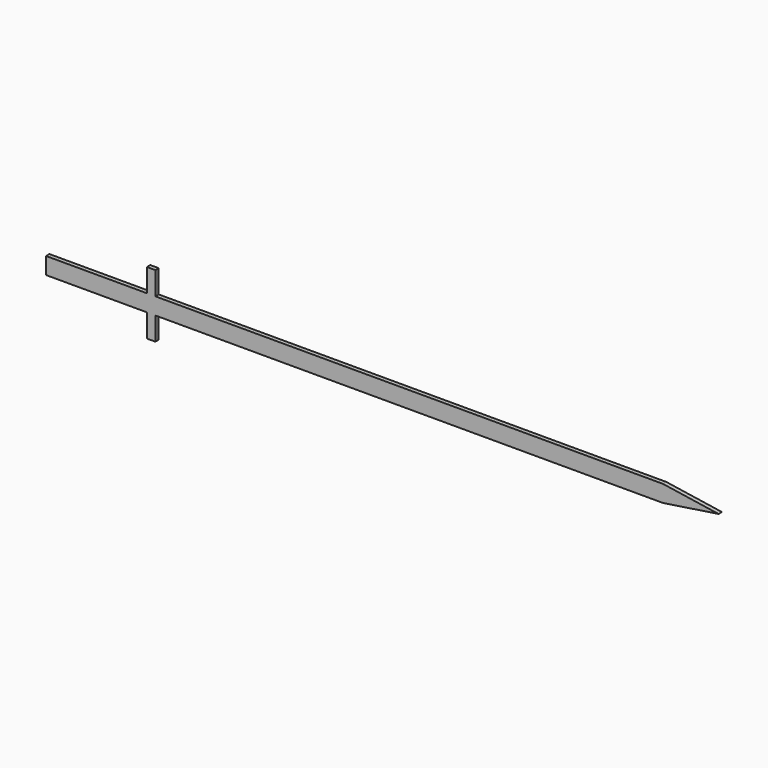
from build123d import *

# Parameters (mm, degrees)
F0_W     = 30.48
F0_H     = 5.08
F0_W_2   = 2.54
F1_DEPTH = 0.635
F0_H_2   = 6.985
F2_DEPTH = 0.635


with BuildPart() as f1:
    # F0 (on Front) → F1 (new body, symmetric)
    with BuildSketch(Plane.XZ):
        Polygon((-109.3809070776, 2.54), (-109.3809070776, -2.54), (43.9970903099, -2.54), (60.7990929224, 0), (43.9970903099, 2.54), align=None)
        with Locations((-127.1609070776, 0)):
            Rectangle(F0_W, F0_H)
        with Locations((-110.6509070776, 0)):
            Rectangle(F0_W_2, F0_H)
    extrude(amount=F1_DEPTH, both=True)

    # F0 (on Front) → F2 (join, symmetric)
    with BuildSketch(Plane.XZ):
        with Locations((-110.6509070776, 6.0325)):
            Rectangle(F0_W_2, F0_H_2)
        with Locations((-110.6509070776, -6.0325)):
            Rectangle(F0_W_2, F0_H_2)
    extrude(amount=F2_DEPTH, both=True)


solid = f1.part
